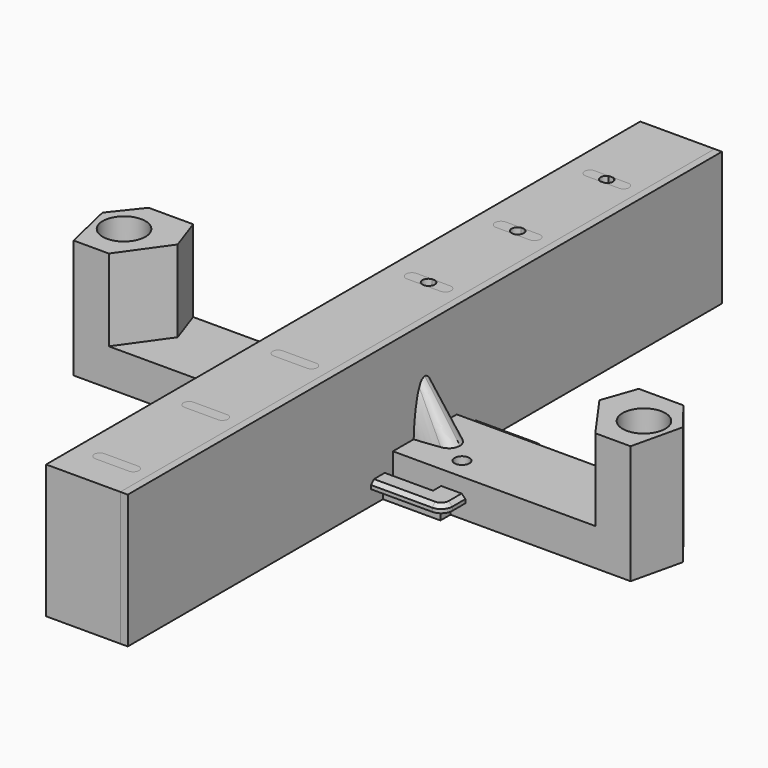
from build123d import *

# Parameters (mm, degrees)
SKETCH_W           = 20
SKETCH_H           = 200
PAD_DEPTH          = 36
SKETCH001_R        = 1.65
POCKET_DEPTH       = 36.001
SKETCH002_W        = 20
SKETCH002_H        = 200
PAD001_DEPTH       = 36
SKETCH004_R        = 5
SKETCH005_R        = 4
POCKET001_DEPTH    = 5
SKETCH006_R        = 2.1
POCKET002_DEPTH    = 27.001
SKETCH007_R        = 2.1
POCKET003_DEPTH    = 32.001
SKETCH008_R        = 3
POCKET004_DEPTH    = 9
SKETCH009_R        = 2
PAD002_DEPTH       = 10
PAD003_DEPTH       = 22
PAD003_FACE21_R    = 2
POCKET005_DEPTH    = 22.001
POCKET005_FACE22_R = 2
POCKET006_DEPTH    = 22.001
POCKET007_DEPTH    = 21.501
FILLET_R           = 3
SKETCH012_R        = 5.75
POCKET008_DEPTH    = 15
CHAMFER_SIZE       = 13
CHAMFER001_SIZE    = 8
SKETCH013_W        = 53
SKETCH013_H        = 28.25
PAD004_DEPTH       = 4
PAD004_FACE6_W     = 28.25
PAD004_FACE6_H     = 53
PAD005_DEPTH       = 2
SKETCH014_W        = 8
SKETCH014_H        = 2
PAD006_DEPTH       = 8
SKETCH015_W        = 8
SKETCH015_H        = 2
PAD007_DEPTH       = 8
SKETCH016_R        = 2
POCKET009_DEPTH    = 6.001
SKETCH017_W        = 42
SKETCH017_H        = 27
POCKET010_DEPTH    = 6.001
CHAMFER002_SIZE    = 3
CHAMFER003_SIZE    = 3
FILLET001_R        = 3
FILLET001_FACE20_W = 22.5
FILLET001_FACE20_H = 2
PAD008_DEPTH       = 4
PAD008_FACE19_W    = 28.25
PAD008_FACE19_H    = 2
PAD009_DEPTH       = 4
PAD009_FACE16_W    = 28.25
PAD009_FACE16_H    = 2
PAD010_DEPTH       = 4
PAD010_FACE17_W    = 22.5
PAD010_FACE17_H    = 2
PAD011_DEPTH       = 4
PAD011_FACE15_W    = 22.5
PAD011_FACE15_H    = 2
PAD012_DEPTH       = 4
PAD012_FACE30_W    = 4
PAD012_FACE30_H    = 2
PAD013_DEPTH       = 4
PAD013_FACE29_W    = 4
PAD013_FACE29_H    = 2
PAD014_DEPTH       = 4
PAD014_FACE38_W    = 4
PAD014_FACE38_H    = 2
PAD015_DEPTH       = 4
PAD015_FACE11_W    = 22.5
PAD015_FACE11_H    = 2
PAD016_DEPTH       = 4
PAD016_FACE26_W    = 4
PAD016_FACE26_H    = 2
PAD017_DEPTH       = 4
FILLET002_R        = 3
CHAMFER004_SIZE    = 1


with BuildPart() as body:
    # Sketch → Pad (new body)
    with BuildSketch(Plane.XY):
        with Locations((1, 0)):
            Rectangle(SKETCH_W, SKETCH_H)
    extrude(amount=PAD_DEPTH)

    # Sketch001 (on Face6 of Pad) → Pocket (cut, through all)
    with BuildSketch(Plane.XY.offset(36)):
        with Locations((0, -75)):
            Circle(SKETCH001_R)
        with Locations((0, -45)):
            Circle(SKETCH001_R)
        with Locations((0, -15)):
            Circle(SKETCH001_R)
        with Locations((0, 15)):
            Circle(SKETCH001_R)
        with Locations((0, 45)):
            Circle(SKETCH001_R)
        with Locations((0, 75)):
            Circle(SKETCH001_R)
    extrude(amount=-POCKET_DEPTH, mode=Mode.SUBTRACT)


with BuildPart() as body001:
    # Sketch002 → Pad001 (new body)
    with BuildSketch(Plane.XY):
        with Locations((-1, 0)):
            Rectangle(SKETCH002_W, SKETCH002_H)
        with BuildLine():
            ThreePointArc((4.5, 13.4), (6.1, 15), (4.5, 16.6))
            Line((4.5, 16.6), (-4.5, 16.6))
            ThreePointArc((-4.5, 16.6), (-6.1, 15), (-4.5, 13.4))
            Line((-4.5, 13.4), (4.5, 13.4))
        make_face(mode=Mode.SUBTRACT)
        with BuildLine():
            ThreePointArc((4.5, -31.5), (6, -30), (4.5, -28.5))
            Line((4.5, -28.5), (-4.5, -28.5))
            ThreePointArc((-4.5, -28.5), (-6, -30), (-4.5, -31.5))
            Line((-4.5, -31.5), (4.5, -31.5))
        make_face(mode=Mode.SUBTRACT)
        with BuildLine():
            ThreePointArc((4.5, -61.5), (6, -60), (4.5, -58.5))
            Line((4.5, -58.5), (-4.5, -58.5))
            ThreePointArc((-4.5, -58.5), (-6, -60), (-4.5, -61.5))
            Line((-4.5, -61.5), (4.5, -61.5))
        make_face(mode=Mode.SUBTRACT)
        with BuildLine():
            ThreePointArc((4.5, -91.5), (6, -90), (4.5, -88.5))
            Line((4.5, -88.5), (-4.5, -88.5))
            ThreePointArc((-4.5, -88.5), (-6, -90), (-4.5, -91.5))
            Line((-4.5, -91.5), (4.5, -91.5))
        make_face(mode=Mode.SUBTRACT)
        with BuildLine():
            ThreePointArc((4.5, 43.4), (6.1, 45), (4.5, 46.6))
            Line((4.5, 46.6), (-4.5, 46.6))
            ThreePointArc((-4.5, 46.6), (-6.1, 45), (-4.5, 43.4))
            Line((-4.5, 43.4), (4.5, 43.4))
        make_face(mode=Mode.SUBTRACT)
        with BuildLine():
            ThreePointArc((4.5, 73.5), (6, 75), (4.5, 76.5))
            Line((4.5, 76.5), (-4.5, 76.5))
            ThreePointArc((-4.5, 76.5), (-6, 75), (-4.5, 73.5))
            Line((-4.5, 73.5), (4.5, 73.5))
        make_face(mode=Mode.SUBTRACT)
    extrude(amount=PAD001_DEPTH)


with BuildPart() as body002:
    # Sketch003 → AdditiveLoft section 0
    with BuildSketch(Plane.XY):
        with BuildLine():
            ThreePointArc((-23.5, 4), (-27.5, 0), (-23.5, -4))
            Line((-23.5, -4), (23.5, -4))
            ThreePointArc((23.5, -4), (27.5, 0), (23.5, 4))
            Line((23.5, 4), (-23.5, 4))
        make_face()
    # Sketch004 → AdditiveLoft section 1
    with BuildSketch(Plane.XY.offset(32)):
        Circle(SKETCH004_R)
    loft()

    # Sketch005 (on Face3 of AdditiveLoft) → Pocket001 (cut)
    with BuildSketch(Plane.XY.offset(32)):
        Circle(SKETCH005_R)
    extrude(amount=-POCKET001_DEPTH, mode=Mode.SUBTRACT)

    # Sketch006 (on Face9 of Pocket001) → Pocket002 (cut, through all)
    with BuildSketch(Plane.XY.offset(27)):
        Circle(SKETCH006_R)
    extrude(amount=-POCKET002_DEPTH, mode=Mode.SUBTRACT)

    # Sketch007 (on Face1 of Pocket002) → Pocket003 (cut, through all)
    with BuildSketch(Plane(origin=(0, 0, 0), x_dir=(1, 0, 0), z_dir=(0, 0, -1))):
        with Locations((23.5, 0)):
            Circle(SKETCH007_R)
        with Locations((-23.5, 0)):
            Circle(SKETCH007_R)
    extrude(amount=-POCKET003_DEPTH, mode=Mode.SUBTRACT)

    # Sketch008 → Pocket004 (cut)
    with BuildSketch(Plane.XY.offset(11)):
        with Locations((-23.532711, 0)):
            Circle(SKETCH008_R)
        with Locations((23.598234, 0)):
            Circle(SKETCH008_R)
    extrude(amount=-POCKET004_DEPTH, mode=Mode.SUBTRACT)


with BuildPart() as body003:
    # Sketch009 → Pad002 (new body)
    with BuildSketch(Plane.XY):
        Polygon((-80, 10.75), (80, 10.75), (75, -10.75), (-75, -10.75), align=None)
        with Locations((-70, 0)):
            Circle(SKETCH009_R, mode=Mode.SUBTRACT)
        with Locations((70, 0)):
            Circle(SKETCH009_R, mode=Mode.SUBTRACT)
        with Locations((-25, -5)):
            Circle(SKETCH009_R, mode=Mode.SUBTRACT)
        with Locations((25, -5)):
            Circle(SKETCH009_R, mode=Mode.SUBTRACT)
    extrude(amount=PAD002_DEPTH)

    # Sketch010 (on Face10 of Pad002) → Pad003 (join)
    with BuildSketch(Plane.XY.offset(10)):
        Polygon((75, -10.75), (80, 10.75), (60, 10.75), (52.5, -10.75), align=None)
        Polygon((-80, 10.75), (-60, 10.75), (-52.5, -10.75), (-75, -10.75), align=None)
    extrude(amount=PAD003_DEPTH)

    # Pad003 Face21 → Pocket005 (cut, through all)
    with BuildSketch(Plane(origin=(70, 0, 10), x_dir=(0, -1, 0), z_dir=(0, 0, -1))):
        Circle(PAD003_FACE21_R)
    extrude(amount=-POCKET005_DEPTH, mode=Mode.SUBTRACT)

    # Pocket005 Face22 → Pocket006 (cut, through all)
    with BuildSketch(Plane(origin=(-70, 0, 10), x_dir=(0, -1, 0), z_dir=(0, 0, -1))):
        Circle(POCKET005_FACE22_R)
    extrude(amount=-POCKET006_DEPTH, mode=Mode.SUBTRACT)

    # Sketch011 (on Face8 of Pocket006) → Pocket007 (cut, through all)
    with BuildSketch(Plane.XZ.offset(10.75)):
        with BuildLine():
            ThreePointArc((4, 0), (0, 4), (-4, 0))
            Line((-4, 0), (4, 0))
        make_face()
    extrude(amount=-POCKET007_DEPTH, mode=Mode.SUBTRACT)

    # Fillet
    fillet_edges = [body003.edges().sort_by_distance(p)[0] for p in [
        (0, -10.75, 4),
    ]]
    fillet(fillet_edges, radius=FILLET_R)

    # Sketch012 (on Face24 of Fillet) → Pocket008 (cut)
    with BuildSketch(Plane.XY.offset(32)):
        with Locations((-70, 0)):
            Circle(SKETCH012_R)
        with Locations((70, 0)):
            Circle(SKETCH012_R)
    extrude(amount=-POCKET008_DEPTH, mode=Mode.SUBTRACT)

    # Chamfer
    chamfer_edges = [body003.edges().sort_by_distance(p)[0] for p in [
        (-52.5, -10.75, 21),
        (52.5, -10.75, 21),
    ]]
    chamfer(chamfer_edges, length=CHAMFER_SIZE)

    # Chamfer001
    chamfer001_edges = [body003.edges().sort_by_distance(p)[0] for p in [
        (80, 10.75, 21),
        (-80, 10.75, 21),
    ]]
    chamfer(chamfer001_edges, length=CHAMFER001_SIZE)


with BuildPart() as body004:
    # Sketch013 → Pad004 (new body)
    with BuildSketch(Plane.XY):
        Rectangle(SKETCH013_W, SKETCH013_H)
    extrude(amount=PAD004_DEPTH)

    # Pad004 Face6 → Pad005 (add)
    with BuildSketch(Plane(origin=(0, 0, 4), x_dir=(0, 1, 0), z_dir=(0, 0, 1))):
        Rectangle(PAD004_FACE6_W, PAD004_FACE6_H)
    extrude(amount=PAD005_DEPTH)

    # Sketch014 (on Face10 of Pad005) → Pad006 (join)
    with BuildSketch(Plane.XZ.offset(14.125)):
        with Locations((0, 5)):
            Rectangle(SKETCH014_W, SKETCH014_H)
    extrude(amount=PAD006_DEPTH)

    # Sketch015 (on Face5 of Pad006) → Pad007 (join)
    with BuildSketch(Plane(origin=(0, 14.125, 0), x_dir=(-1, 0, 0), z_dir=(0, 1, 0))):
        with Locations((0, 5)):
            Rectangle(SKETCH015_W, SKETCH015_H)
    extrude(amount=PAD007_DEPTH)

    # Sketch016 (on Face18 of Pad007) → Pocket009 (cut, through all)
    with BuildSketch(Plane.XY.offset(6)):
        with Locations((0, 18.125)):
            Circle(SKETCH016_R)
        with Locations((0, -18.125)):
            Circle(SKETCH016_R)
    extrude(amount=-POCKET009_DEPTH, mode=Mode.SUBTRACT)

    # Sketch017 (on Face4 of Pocket009) → Pocket010 (cut, through all)
    with BuildSketch(Plane(origin=(0, 0, 0), x_dir=(1, 0, 0), z_dir=(0, 0, -1))):
        Rectangle(SKETCH017_W, SKETCH017_H)
    extrude(amount=-POCKET010_DEPTH, mode=Mode.SUBTRACT)

    # Chamfer002
    chamfer002_edges = [body004.edges().sort_by_distance(p)[0] for p in [
        (-21, 0, 6),
    ]]
    chamfer(chamfer002_edges, length=CHAMFER002_SIZE)

    # Chamfer003
    chamfer003_edges = [body004.edges().sort_by_distance(p)[0] for p in [
        (21, 0, 6),
    ]]
    chamfer(chamfer003_edges, length=CHAMFER003_SIZE)

    # Fillet001
    fillet001_edges = [body004.edges().sort_by_distance(p)[0] for p in [
        (-4, -22.125, 5),
        (4, -22.125, 5),
        (-4, 22.125, 5),
        (4, 22.125, 5),
    ]]
    fillet(fillet001_edges, radius=FILLET001_R)

    # Fillet001 Face20 → Pad008 (add)
    with BuildSketch(Plane(origin=(15.25, -14.125, 5), x_dir=(-1, 0, 0), z_dir=(0, -1, 0))):
        Rectangle(FILLET001_FACE20_W, FILLET001_FACE20_H)
    extrude(amount=PAD008_DEPTH)

    # Pad008 Face19 → Pad009 (add)
    with BuildSketch(Plane(origin=(26.5, 0, 5), x_dir=(0, -1, 0), z_dir=(1, 0, 0))):
        Rectangle(PAD008_FACE19_W, PAD008_FACE19_H)
    extrude(amount=PAD009_DEPTH)

    # Pad009 Face16 → Pad010 (add)
    with BuildSketch(Plane(origin=(-26.5, 0, 5), x_dir=(0, 1, 0), z_dir=(-1, 0, 0))):
        Rectangle(PAD009_FACE16_W, PAD009_FACE16_H)
    extrude(amount=PAD010_DEPTH)

    # Pad010 Face17 → Pad011 (add)
    with BuildSketch(Plane(origin=(-15.25, -14.125, 5), x_dir=(-1, 0, 0), z_dir=(0, -1, 0))):
        Rectangle(PAD010_FACE17_W, PAD010_FACE17_H)
    extrude(amount=PAD011_DEPTH)

    # Pad011 Face15 → Pad012 (add)
    with BuildSketch(Plane(origin=(-15.25, 14.125, 5), x_dir=(1, 0, 0), z_dir=(0, 1, 0))):
        Rectangle(PAD011_FACE15_W, PAD011_FACE15_H)
    extrude(amount=PAD012_DEPTH)

    # Pad012 Face30 → Pad013 (add)
    with BuildSketch(Plane(origin=(-28.5, 14.125, 5), x_dir=(1, 0, 0), z_dir=(0, 1, 0))):
        Rectangle(PAD012_FACE30_W, PAD012_FACE30_H)
    extrude(amount=PAD013_DEPTH)

    # Pad013 Face29 → Pad014 (add)
    with BuildSketch(Plane(origin=(-28.5, -14.125, 5), x_dir=(-1, 0, 0), z_dir=(0, -1, 0))):
        Rectangle(PAD013_FACE29_W, PAD013_FACE29_H)
    extrude(amount=PAD014_DEPTH)

    # Pad014 Face38 → Pad015 (add)
    with BuildSketch(Plane(origin=(28.5, -14.125, 5), x_dir=(-1, 0, 0), z_dir=(0, -1, 0))):
        Rectangle(PAD014_FACE38_W, PAD014_FACE38_H)
    extrude(amount=PAD015_DEPTH)

    # Pad015 Face11 → Pad016 (add)
    with BuildSketch(Plane(origin=(15.25, 14.125, 5), x_dir=(1, 0, 0), z_dir=(0, 1, 0))):
        Rectangle(PAD015_FACE11_W, PAD015_FACE11_H)
    extrude(amount=PAD016_DEPTH)

    # Pad016 Face26 → Pad017 (add)
    with BuildSketch(Plane(origin=(28.5, 14.125, 5), x_dir=(1, 0, 0), z_dir=(0, 1, 0))):
        Rectangle(PAD016_FACE26_W, PAD016_FACE26_H)
    extrude(amount=PAD017_DEPTH)

    # Fillet002
    fillet002_edges = [body004.edges().sort_by_distance(p)[0] for p in [
        (30.5, 18.125, 5),
        (30.5, -18.125, 5),
        (-30.5, -18.125, 5),
        (-30.5, 18.125, 5),
    ]]
    fillet(fillet002_edges, radius=FILLET002_R)

    # Chamfer004
    chamfer004_edges = [body004.edges().sort_by_distance(p)[0] for p in [
        (-15.25, 18.125, 6),
        (15.25, 18.125, 6),
    ]]
    chamfer(chamfer004_edges, length=CHAMFER004_SIZE)


solid = Compound([body.part, body001.part, body002.part, body003.part, body004.part])
